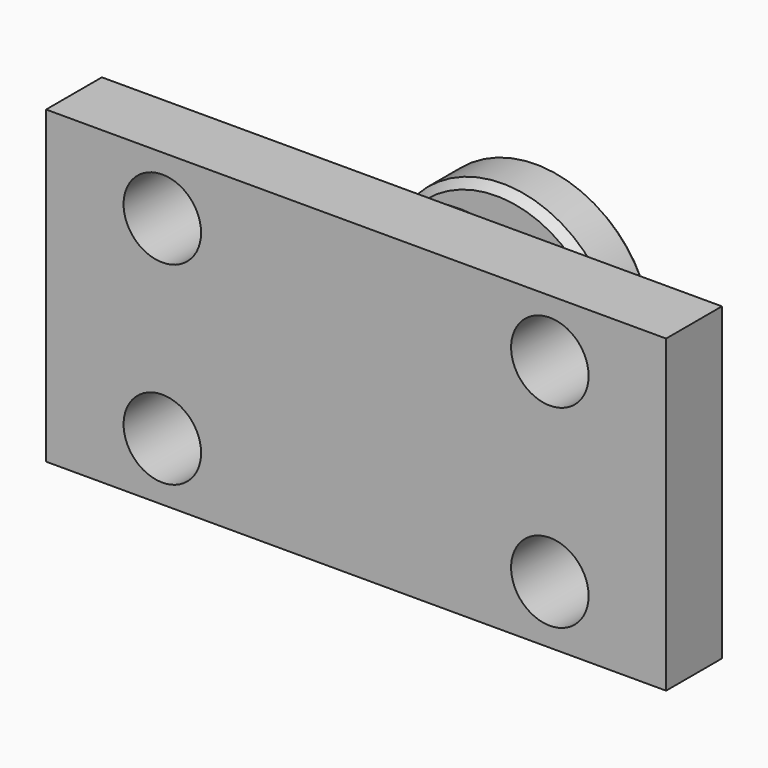
from build123d import *

# Parameters (mm, degrees)
F0_W     = 203.2
F0_H     = 101.6
F1_DEPTH = 25.4
F2_R     = 12.7
F3_DEPTH = 25.4
F4_W     = 38.1
F4_H     = 50.8
F6_W     = 25.4
F6_H     = 12.7
F8_R     = 2.54
F9_SIZE  = 2.54


with BuildPart() as f1:
    # F0 (on Front) → F1 (new body)
    with BuildSketch(Plane.XZ):
        Rectangle(F0_W, F0_H)
    extrude(amount=F1_DEPTH)

    # F2 (on Front) → F3 (cut)
    with BuildSketch(Plane.XZ):
        with Locations((-63.5, 31.75)):
            Circle(F2_R)
        with Locations((-63.5, -31.75)):
            Circle(F2_R)
        with Locations((63.5, 31.75)):
            Circle(F2_R)
        with Locations((63.5, -31.75)):
            Circle(F2_R)
    extrude(amount=F3_DEPTH, mode=Mode.SUBTRACT)

    # F4 (on Top) → F5 (revolve)
    with BuildSketch(Plane.XY):
        with Locations((-19.05, 25.4)):
            Rectangle(F4_W, F4_H)
    revolve(axis=Axis((0, 25.4, 0), (0, -1, 0)))

    # F6 (on Top) → F7 (revolve, cut)
    with BuildSketch(Plane.XY):
        with Locations((-31.75, 25.7521334298)):
            Rectangle(F6_W, F6_H)
    revolve(axis=Axis((0, 67.0673400164, 0), (0, 1, 0)), mode=Mode.SUBTRACT)

    # F8
    f8_edges = [f1.edges().sort_by_distance(p)[0] for p in [
        (38.1, 0, 0),
        (19.05, 19.402133, 0),
        (19.05, 32.102133, 0),
    ]]
    fillet(f8_edges, radius=F8_R)

    # F9
    f9_edges = [f1.edges().sort_by_distance(p)[0] for p in [
        (38.1, 50.8, 0),
        (38.1, 32.102133, 0),
        (38.1, 19.402133, 0),
        (-101.6, 0, 0),
        (0, 0, -50.8),
        (0, 0, 50.8),
        (101.6, 0, 0),
    ]]
    chamfer(f9_edges, length=F9_SIZE)


solid = f1.part
